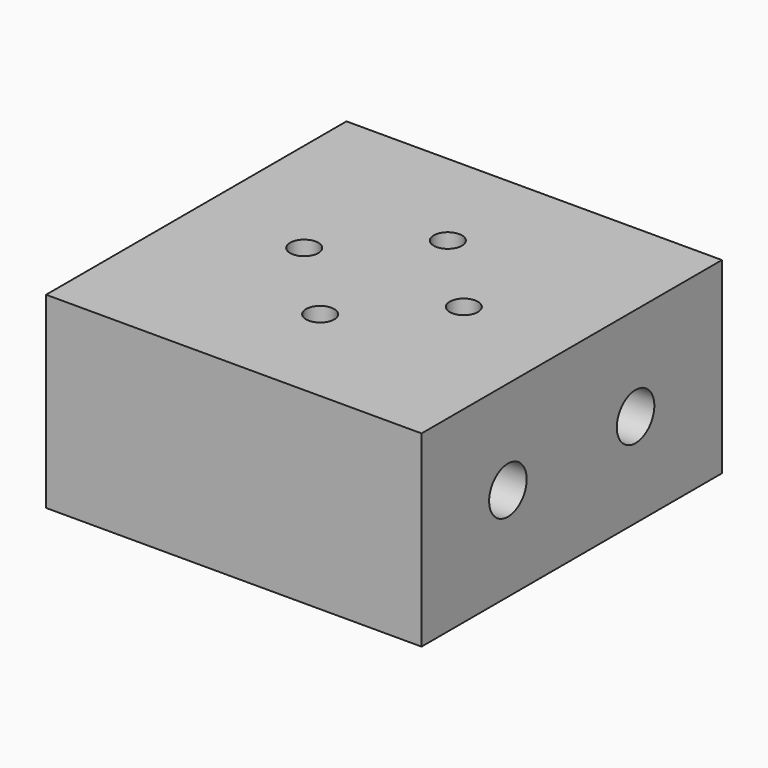
from build123d import *

# Parameters (mm, degrees)
F0_W     = 20
F0_H     = 20
F0_R     = 8
F0_R_2   = 7
F0_R_3   = 0.75
F1_DEPTH = 10
F2_R     = 1.25
F3_DEPTH = 25
F4_DEPTH = 6
F5_R     = 1.25
F5_R_2   = 0.75
F6_DEPTH = 5


with BuildPart() as f1:
    # F0 (on Top) → F1 (new body)
    with BuildSketch(Plane.XY):
        with Locations((10, -10)):
            Rectangle(F0_W, F0_H)
        with Locations((10, -10)):
            Circle(F0_R, mode=Mode.SUBTRACT)
        with Locations((10, -10)):
            Circle(F0_R)
        with Locations((10, -10)):
            Circle(F0_R_2, mode=Mode.SUBTRACT)
        with Locations((10, -10)):
            Circle(F0_R_2)
        with Locations((10, -14.25)):
            Circle(F0_R_3, mode=Mode.SUBTRACT)
        with Locations((5.75, -10)):
            Circle(F0_R_3, mode=Mode.SUBTRACT)
        with Locations((14.25, -10)):
            Circle(F0_R_3, mode=Mode.SUBTRACT)
        with Locations((10, -5.75)):
            Circle(F0_R_3, mode=Mode.SUBTRACT)
        with Locations((10, -14.25)):
            Circle(F0_R_3)
        with Locations((10, -5.75)):
            Circle(F0_R_3)
    extrude(amount=-F1_DEPTH)

    # F2 (on face) → F3 (cut)
    with BuildSketch(Plane(origin=(0, 0, 0), x_dir=(0, -1, 0), z_dir=(-1, 0, 0))):
        with Locations((5.75, -5)):
            Circle(F2_R)
        with Locations((14.25, -5)):
            Circle(F2_R)
    extrude(amount=-F3_DEPTH, mode=Mode.SUBTRACT)

    # F0 (on Top) → F4 (cut)
    with BuildSketch(Plane.XY):
        with Locations((10, -5.75)):
            Circle(F0_R_3)
        with Locations((10, -14.25)):
            Circle(F0_R_3)
    extrude(amount=-F4_DEPTH, mode=Mode.SUBTRACT)

    # F5 (on face) → F6 (cut)
    with BuildSketch(Plane(origin=(0, 0, -10), x_dir=(1, 0, 0), z_dir=(0, 0, -1))):
        with Locations((5.75, 10)):
            Circle(F5_R)
        with Locations((5.75, 10)):
            Circle(F5_R_2, mode=Mode.SUBTRACT)
        with Locations((14.25, 10)):
            Circle(F5_R)
        with Locations((14.25, 10)):
            Circle(F5_R_2, mode=Mode.SUBTRACT)
    extrude(amount=-F6_DEPTH, mode=Mode.SUBTRACT)


solid = f1.part
